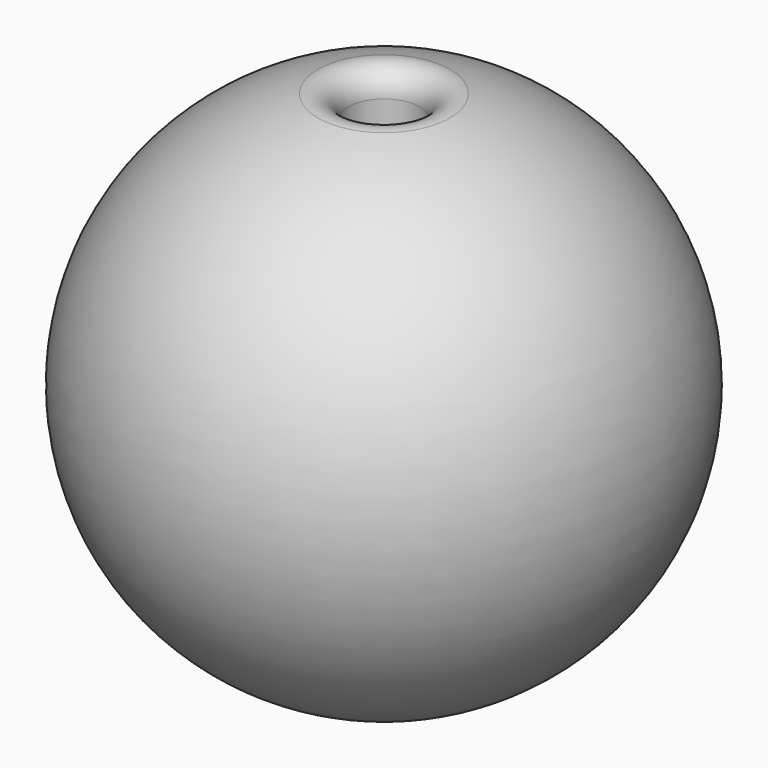
from build123d import *


with BuildPart() as f1:
    # F0 (on Front) → F1 (revolve)
    with BuildSketch(Plane.XZ):
        with BuildLine():
            ThreePointArc((-0.75, 4.841229), (-0.943814, 5.236514), (-1.375, 5.325352))
            ThreePointArc((-1.375, 5.325352), (-5.494778, 0.239605), (-1.833333, -5.18545))
            ThreePointArc((-1.833333, -5.18545), (-1.605662, -5.153872), (-1.5, -4.949747))
            Line((-1.5, -4.949747), (-1.5, -4.25))
            ThreePointArc((-1.5, -4.25), (-1.426777, -4.073223), (-1.25, -4))
            Line((-1.25, -4), (-1, -4))
            ThreePointArc((-1, -4), (-0.823223, -3.926777), (-0.75, -3.75))
            Line((-0.75, -3.75), (-0.75, 4.841229))
        make_face()
    revolve(axis=Axis((0, 0, 0.743363), (0, 0, -1)))


solid = f1.part
